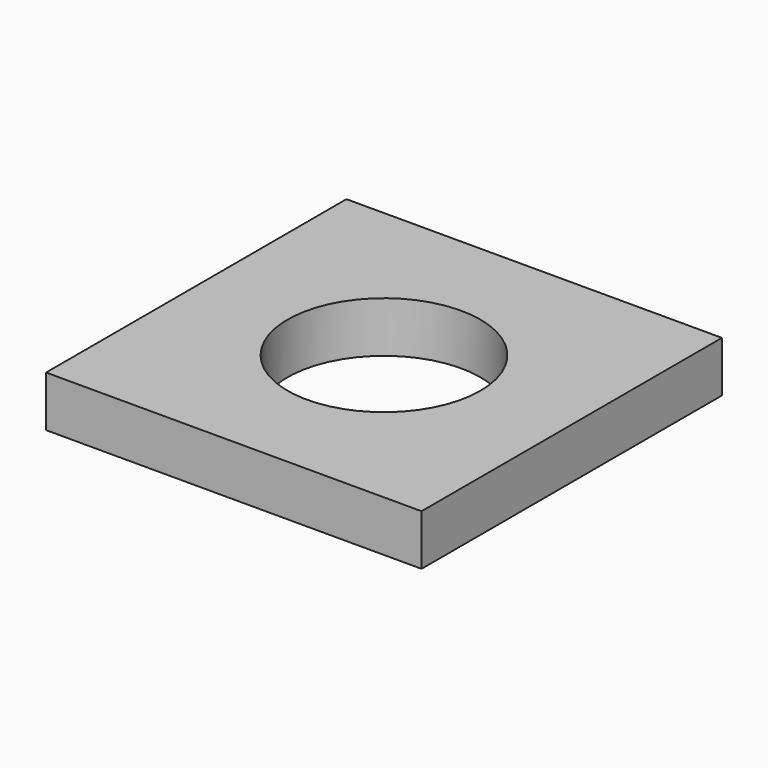
from build123d import *

# Parameters (mm, degrees)
F0_W     = 37
F0_H     = 37
F0_R     = 9.5
F1_DEPTH = 5
F2_ANGLE = 90


with BuildPart() as f1:
    # F0 (on Front) → F1 (new body)
    with BuildSketch(Plane.XZ):
        Rectangle(F0_W, F0_H)
        Circle(F0_R, mode=Mode.SUBTRACT)
    extrude(amount=F1_DEPTH)


with BuildPart() as f1_1:
    # F2: moved
    add(f1.part.rotate(Axis((0, 0, 18.5), (-1, 0, 0)), F2_ANGLE))


with BuildPart() as f1_2:
    # F3: moved
    add(f1_1.part.moved(Location((16, 32, -21))))


solid = f1_2.part
